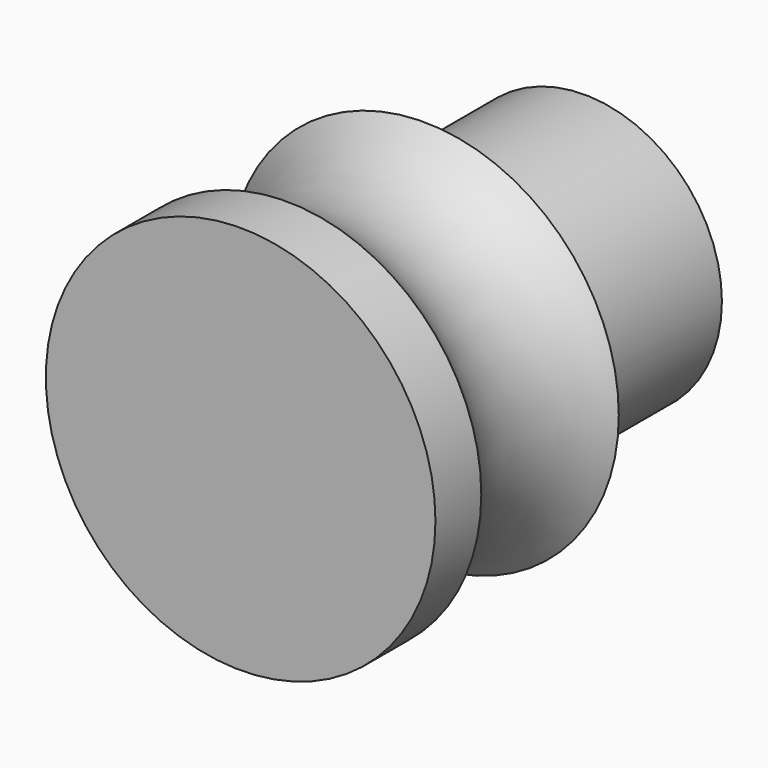
from build123d import *


with BuildPart() as f1:
    # F0 (on Top) → F1 (revolve)
    with BuildSketch(Plane.XY):
        Polygon((1.4, 6.5), (1.4, 0), (2.4, 0), (2.4, 3), (2.4, 6.5), align=None)
        Polygon((2.4, 0), (1.4, 0), (0, 0), (0, -1), (3.4, -1), (3.4, 0), (2.428727, 0), align=None)
        with BuildLine():
            Line((2.4, 3), (2.4, 0))
            Line((2.4, 0), (2.428727, 0))
            Line((2.428727, 0), (3.4, 0))
            ThreePointArc((3.4, 0), (2.746383, 1.5), (3.4, 3))
            Line((3.4, 3), (2.4, 3))
        make_face()
    revolve(axis=Axis((0, 7.587805, 0), (0, 1, 0)))


solid = f1.part
